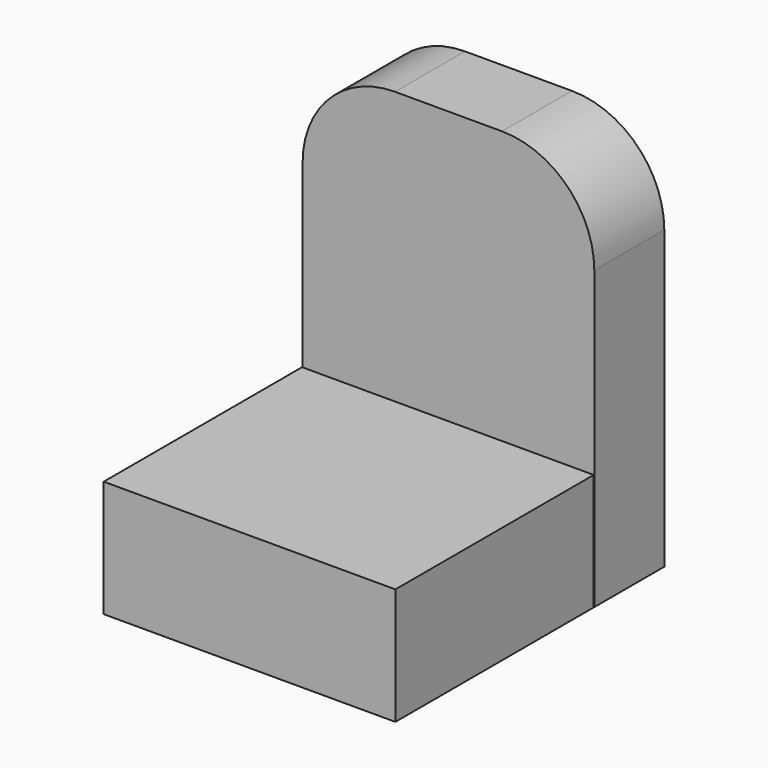
from build123d import *

# Parameters (mm, degrees)
F0_W     = 30
F0_H     = 12
F1_DEPTH = 4.5
F2_W     = 30
F2_H     = 12
F3_DEPTH = 30


with BuildPart() as f1:
    # F0 (on Front) → F1 (new body, symmetric)
    with BuildSketch(Plane.XZ):
        with BuildLine():
            Line((8.60261, 24.451202), (-2.39739, 24.451202))
            ThreePointArc((-2.39739, 24.451202), (-9.114904, 21.668717), (-11.89739, 14.951202))
            Line((-11.89739, 14.951202), (-11.89739, -3.548798))
            Line((-11.89739, -3.548798), (18.10261, -3.548798))
            Line((18.10261, -3.548798), (18.10261, 14.951202))
            ThreePointArc((18.10261, 14.951202), (15.320125, 21.668717), (8.60261, 24.451202))
        make_face()
        with Locations((3.10261, -9.548798)):
            Rectangle(F0_W, F0_H)
    extrude(amount=F1_DEPTH, both=True)

    # F2 (on Front) → F3 (join)
    with BuildSketch(Plane.XZ):
        with Locations((3.045083, -9.593663)):
            Rectangle(F2_W, F2_H)
    extrude(amount=F3_DEPTH)


solid = f1.part
